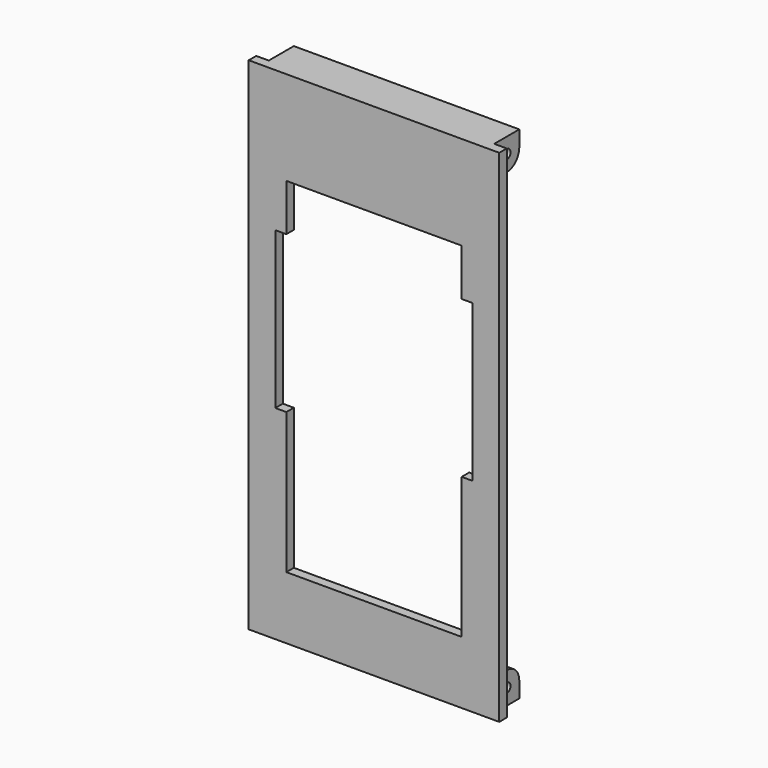
from build123d import *

# Parameters (mm, degrees)
SKETCH_W          = 80
SKETCH_H          = 160
PAD_DEPTH         = 3
SKETCH001_W       = 72
SKETCH001_H       = 10
PAD001_DEPTH      = 10
SKETCH002_R       = 1.5
POCKET_DEPTH      = 76.001
POCKET_DEPTH_BACK = 4.001
FILLET_R          = 5


with BuildPart() as part:
    # Sketch → Pad (new body)
    with BuildSketch(Plane.XZ):
        Rectangle(SKETCH_W, SKETCH_H)
        Polygon((-31.5, -15), (-28, -15), (-28, -60), (28, -60), (28, -15), (31.5, -15), (31.5, 35), (28, 35), (28, 50), (-28, 50), (-28, 35), (-31.5, 35), align=None, mode=Mode.SUBTRACT)
    extrude(amount=PAD_DEPTH)

    # Sketch001 (on Face17 of Pad) → Pad001 (join)
    with BuildSketch(Plane(origin=(0, 0, 0), x_dir=(1, 0, 0), z_dir=(0, 1, 0))):
        with Locations((0, 75)):
            Rectangle(SKETCH001_W, SKETCH001_H)
        with Locations((0, -75)):
            Rectangle(SKETCH001_W, SKETCH001_H)
    extrude(amount=PAD001_DEPTH)

    # Sketch002 (on Face8 of Pad001) → Pocket (cut, two sides)
    with BuildSketch(Plane(origin=(36, 0, 0), x_dir=(0, 0, 1), z_dir=(1, 0, 0))) as pocket_sk:
        with Locations((75, -5)):
            Circle(SKETCH002_R)
        with Locations((-75, -5)):
            Circle(SKETCH002_R)
    extrude(amount=-POCKET_DEPTH, mode=Mode.SUBTRACT)
    extrude(pocket_sk.sketch, amount=POCKET_DEPTH_BACK, mode=Mode.SUBTRACT)

    # Fillet
    fillet_edges = [part.edges().sort_by_distance(p)[0] for p in [
        (0, 10, -70),
        (0, 10, 70),
    ]]
    fillet(fillet_edges, radius=FILLET_R)


solid = part.part
